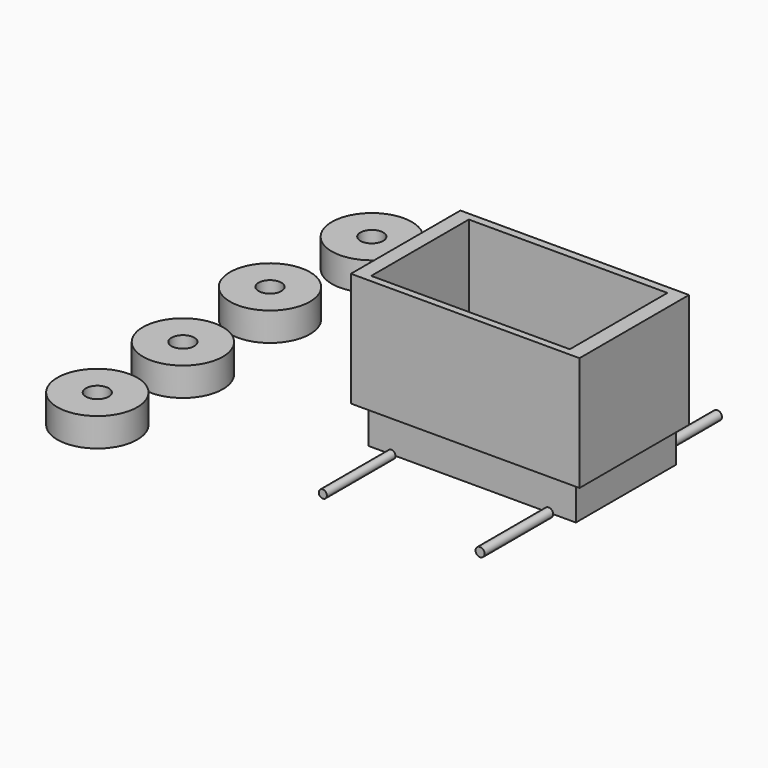
from build123d import *

# Parameters (mm, degrees)
F0_W      = 3.2517500222
F0_H      = 27.1141631529
F0_W_2    = 3.4065774262
F1_DEPTH  = 25.4
F2_DEPTH  = 25.4
F3_W      = 46.1175404489
F3_H      = 27.7686519548
F4_DEPTH  = 7.62
F5_R      = 1.016
F6_DEPTH  = 19.05
F7_R      = 0.9042601728
F7_R_2    = 1.0033209585
F8_DEPTH  = 19.05
F9_R      = 8.89
F10_DEPTH = 6.35
F11_R     = 2.54
F12_DEPTH = 25.4
F13_R     = 2.54
F14_DEPTH = 25.4
F15_R     = 2.54
F16_DEPTH = 25.4
F17_R     = 2.54
F18_DEPTH = 25.4


with BuildPart() as f1:
    # F0 (on Top) → F1 (new body)
    with BuildSketch(Plane.XY):
        Polygon((34.1480995148, 19.0366730094), (-16.6519004852, 19.0366730094), (-16.6519004852, 17.2996520996), (-13.400150463, 17.2996520996), (30.7415220886, 17.2996520996), (34.1480995148, 17.2996520996), align=None)
        with Locations((-15.0260254741, 3.7425705232)):
            Rectangle(F0_W, F0_H)
        with Locations((32.4448108017, 3.7425705232)):
            Rectangle(F0_W_2, F0_H)
        Polygon((-13.400150463, -9.8145110533), (-16.6519004852, -9.8145110533), (-16.6519004852, -11.3855972886), (34.1480995148, -11.3855972886), (34.1480995148, -9.8145110533), (30.7415220886, -9.8145110533), align=None)
    extrude(amount=F1_DEPTH)

    # F0 (on Top) → F2 (join)
    with BuildSketch(Plane.XY):
        Polygon((34.1480995148, 19.0366730094), (-16.6519004852, 19.0366730094), (-16.6519004852, 17.2996520996), (-13.400150463, 17.2996520996), (30.7415220886, 17.2996520996), (34.1480995148, 17.2996520996), align=None)
        with Locations((-15.0260254741, 3.7425705232)):
            Rectangle(F0_W, F0_H)
        with Locations((32.4448108017, 3.7425705232)):
            Rectangle(F0_W_2, F0_H)
        Polygon((-13.400150463, -9.8145110533), (-16.6519004852, -9.8145110533), (-16.6519004852, -11.3855972886), (34.1480995148, -11.3855972886), (34.1480995148, -9.8145110533), (30.7415220886, -9.8145110533), align=None)
    extrude(amount=F2_DEPTH)

    # F3 (on Top) → F4 (join)
    with BuildSketch(Plane.XY):
        with Locations((9.5635969192, 3.3954721875)):
            Rectangle(F3_W, F3_H)
    extrude(amount=-F4_DEPTH)

    # F5 (on face) → F6 (join)
    with BuildSketch(Plane(origin=(0, 17.279798165, 0), x_dir=(-1, 0, 0), z_dir=(0, 1, 0))):
        with Locations((-26.611706242, -7.62)):
            Circle(F5_R)
        with Locations((8.3409249783, -7.62)):
            Circle(F5_R)
    extrude(amount=F6_DEPTH)

    # F7 (on face) → F8 (join)
    with BuildSketch(Plane.XZ.offset(10.4888537899)):
        with Locations((-8.3711668849, -7.62)):
            Circle(F7_R)
        with Locations((26.5810359269, -7.62)):
            Circle(F7_R_2)
    extrude(amount=F8_DEPTH)


with BuildPart() as f10:
    # F9 (on Top) → F10 (new body)
    with BuildSketch(Plane.XY):
        with Locations((-45.3786626458, 30.3313024342)):
            Circle(F9_R)
    extrude(amount=F10_DEPTH)

    # F11 (on face) → F12 (cut)
    with BuildSketch(Plane.XY.offset(6.35)):
        with Locations((-45.3786626458, 30.3313024342)):
            Circle(F11_R)
    extrude(amount=-F12_DEPTH, mode=Mode.SUBTRACT)


with BuildPart() as f10b:
    # F9 (on Top) → F10, piece 2 (new body)
    with BuildSketch(Plane.XY):
        with Locations((-47.3869070411, 4.5567816123)):
            Circle(F9_R)
    extrude(amount=F10_DEPTH)

    # F13 (on face) → F14 (cut)
    with BuildSketch(Plane.XY.offset(6.35)):
        with Locations((-47.3869070411, 4.5567816123)):
            Circle(F13_R)
    extrude(amount=-F14_DEPTH, mode=Mode.SUBTRACT)


with BuildPart() as f10c:
    # F9 (on Top) → F10, piece 3 (new body)
    with BuildSketch(Plane.XY):
        with Locations((-46.2693721056, -21.0301224142)):
            Circle(F9_R)
    extrude(amount=F10_DEPTH)

    # F15 (on face) → F16 (cut)
    with BuildSketch(Plane.XY.offset(6.35)):
        with Locations((-46.2693721056, -21.0301224142)):
            Circle(F15_R)
    extrude(amount=-F16_DEPTH, mode=Mode.SUBTRACT)


with BuildPart() as f10d:
    # F9 (on Top) → F10, piece 4 (new body)
    with BuildSketch(Plane.XY):
        with Locations((-46.0076406598, -45.1347231865)):
            Circle(F9_R)
    extrude(amount=F10_DEPTH)

    # F17 (on face) → F18 (cut)
    with BuildSketch(Plane.XY.offset(6.35)):
        with Locations((-46.0076406598, -45.1347231865)):
            Circle(F17_R)
    extrude(amount=-F18_DEPTH, mode=Mode.SUBTRACT)


solid = Compound([f1.part, f10.part, f10b.part, f10c.part, f10d.part])
